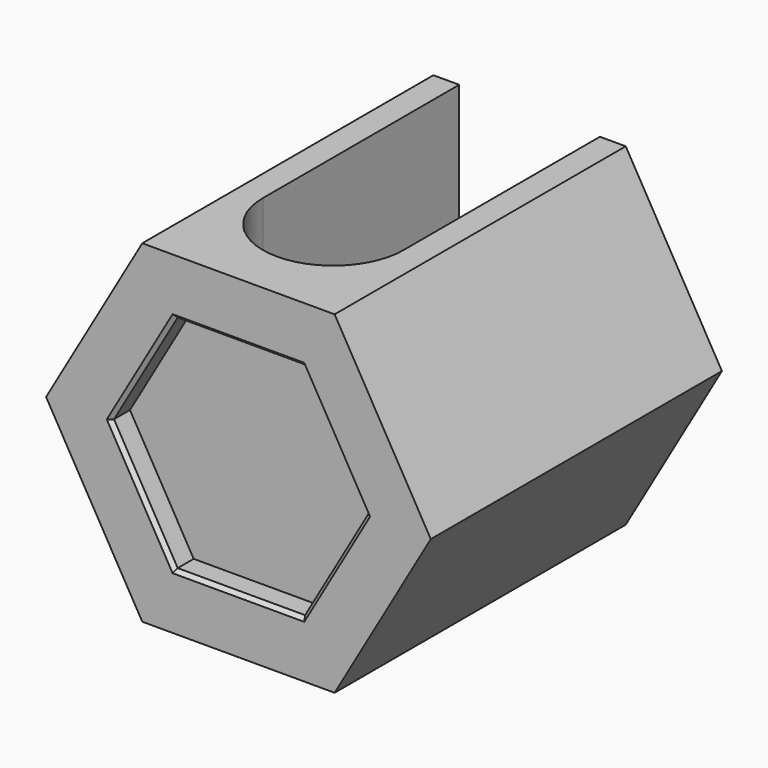
from build123d import *

# Parameters (mm, degrees)
PAD_DEPTH       = 49.15
POCKET_DEPTH    = 3.2
CHAMFER_SIZE    = 0.5
POCKET001_DEPTH = 45.001


with BuildPart() as body:
    # Sketch → Pad (new body)
    with BuildSketch(Plane.XZ):
        Polygon((25.980762, 0), (12.990381, 22.5), (-12.990381, 22.5), (-25.980762, 0), (-12.990381, -22.5), (12.990381, -22.5), align=None)
    extrude(amount=PAD_DEPTH)

    # Sketch017 → Pocket (cut)
    with BuildSketch(Plane(origin=(0, 0, 0), x_dir=(1, 0, 0), z_dir=(0, 1, 0))):
        Polygon((17.205038, 0), (8.602519, 14.9), (-8.602519, 14.9), (-17.205038, 0), (-8.602519, -14.9), (8.602519, -14.9), align=None)
    extrude(amount=-POCKET_DEPTH, mode=Mode.SUBTRACT)

    # Chamfer
    chamfer_edges = [body.edges().sort_by_distance(p)[0] for p in [
        (12.903779, 0, 7.45),
        (12.903779, 0, -7.45),
        (0, 0, -14.9),
        (-12.903779, 0, -7.45),
        (-12.903779, 0, 7.45),
        (0, 0, 14.9),
    ]]
    chamfer(chamfer_edges, length=CHAMFER_SIZE)

    # Sketch018 (on Face10 of Chamfer) → Pocket001 (cut, through all)
    with BuildSketch(Plane(origin=(0, 0, 22.5), x_dir=(-1, 0, 0), z_dir=(0, 0, 1))):
        with BuildLine():
            ThreePointArc((-9.5, 16), (0, 6.5), (9.5, 16))
            Line((9.5, 49.15), (9.5, 16))
            Line((-9.5, 49.15), (9.5, 49.15))
            Line((-9.5, 16), (-9.5, 49.15))
        make_face()
    extrude(amount=-POCKET001_DEPTH, mode=Mode.SUBTRACT)


with BuildPart() as part_mirroring:
    # Part__Mirroring: instance of Body
    add(body.part.mirror(Plane(origin=(0, 0, 0), x_dir=(1, 0, 0), z_dir=(0, 1, 0))))


with BuildPart() as part_mirroring_1:
    # Part__Mirroring placement: moved
    add(part_mirroring.part.moved(Location((0, -98.3, 0))))


solid = part_mirroring_1.part
